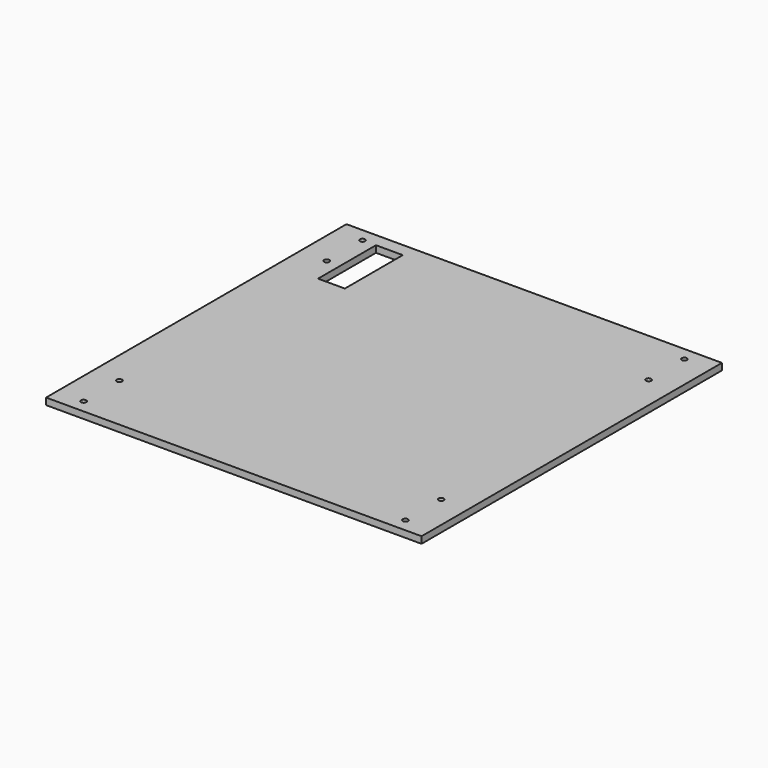
from build123d import *

# Parameters (mm, degrees)
F0_W     = 355.6
F0_H     = 355.6
F1_DEPTH = 6.35
F2_R     = 2.5
F2_W     = 25.4
F2_H     = 68.58
F3_DEPTH = 6.351
F4_DEPTH = 6.351
F5_DEPTH = 6.351


with BuildPart() as f1:
    # F0 (on Top) → F1 (new body)
    with BuildSketch(Plane.XY):
        with Locations((-134.099856, -1.412397)):
            Rectangle(F0_W, F0_H)
    extrude(amount=F1_DEPTH)

    # F2 (on face) → F3 (cut, through all)
    with BuildSketch(Plane.XY.offset(6.35)):
        with Locations((-286.499856, 163.687603)):
            Circle(F2_R)
        with Locations((-286.499856, -166.512397)):
            Circle(F2_R)
        with Locations((18.300144, -166.512397)):
            Circle(F2_R)
        with Locations((18.300144, 163.687603)):
            Circle(F2_R)
        with Locations((-286.499856, -124.145197)):
            Circle(F2_R)
        with Locations((-286.499856, 121.320403)):
            Circle(F2_R)
        with Locations((18.300144, 121.320403)):
            Circle(F2_R)
        with Locations((18.300144, -124.145197)):
            Circle(F2_R)
        with Locations((-261.099856, 129.397603)):
            Rectangle(F2_W, F2_H)
    extrude(amount=-F3_DEPTH, mode=Mode.SUBTRACT)

    # F2 (on face) → F4 (cut, through all)
    with BuildSketch(Plane.XY.offset(6.35)):
        with Locations((-286.499856, 163.687603)):
            Circle(F2_R)
        with Locations((-286.499856, -166.512397)):
            Circle(F2_R)
        with Locations((18.300144, -166.512397)):
            Circle(F2_R)
        with Locations((18.300144, 163.687603)):
            Circle(F2_R)
        with Locations((-286.499856, -124.145197)):
            Circle(F2_R)
        with Locations((-286.499856, 121.320403)):
            Circle(F2_R)
        with Locations((18.300144, 121.320403)):
            Circle(F2_R)
        with Locations((18.300144, -124.145197)):
            Circle(F2_R)
        with Locations((-261.099856, 129.397603)):
            Rectangle(F2_W, F2_H)
    extrude(amount=-F4_DEPTH, mode=Mode.SUBTRACT)

    # F2 (on face) → F5 (cut, through all)
    with BuildSketch(Plane.XY.offset(6.35)):
        with Locations((-286.499856, 163.687603)):
            Circle(F2_R)
        with Locations((-286.499856, -166.512397)):
            Circle(F2_R)
        with Locations((18.300144, -166.512397)):
            Circle(F2_R)
        with Locations((18.300144, 163.687603)):
            Circle(F2_R)
        with Locations((-286.499856, -124.145197)):
            Circle(F2_R)
        with Locations((-286.499856, 121.320403)):
            Circle(F2_R)
        with Locations((18.300144, 121.320403)):
            Circle(F2_R)
        with Locations((18.300144, -124.145197)):
            Circle(F2_R)
    extrude(amount=-F5_DEPTH, mode=Mode.SUBTRACT)


solid = f1.part
